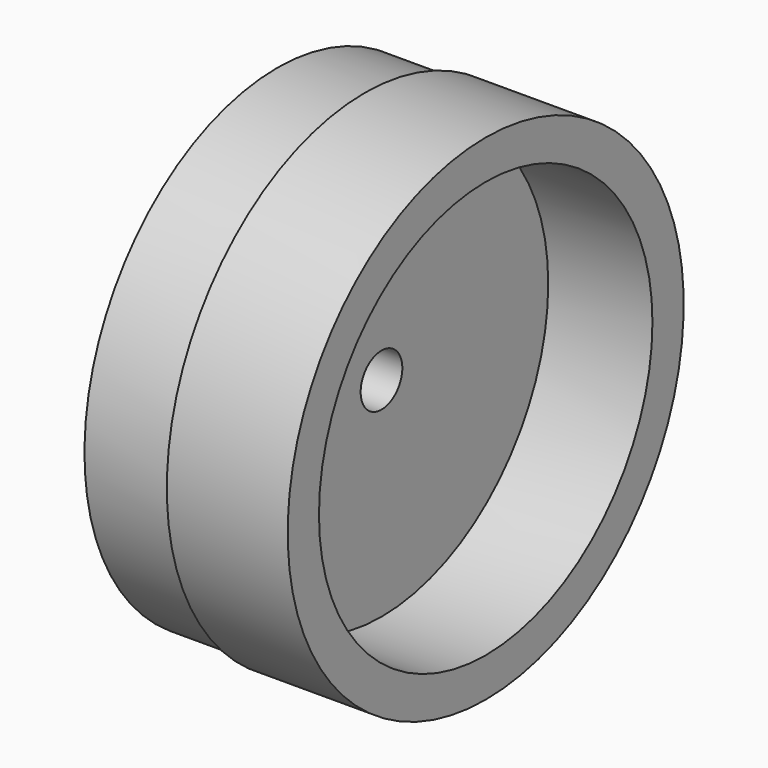
from build123d import *

# Parameters (mm, degrees)
F2_R     = 25.4
F3_DEPTH = 12.7
F4_R     = 3.175
F5_DEPTH = 25.4
F6_R     = 3.9751
F7_DEPTH = 10.16
F8_R     = 1.7272
F9_DEPTH = 70.55837


with BuildPart() as f1:
    # F0 (on Front) → F1 (revolve)
    with BuildSketch(Plane.XZ):
        Polygon((-51.577873, 29.3751), (-51.577873, 0), (-26.177873, 0), (-26.177873, 30.1625), (-40.909873, 30.1625), (-40.909873, 29.3751), align=None)
    revolve(axis=Axis((-38.877873, 0, 0), (-1, 0, 0)))

    # F2 (on face) → F3 (cut)
    with BuildSketch(Plane.YZ.offset(-26.177873)):
        Circle(F2_R)
    extrude(amount=-F3_DEPTH, mode=Mode.SUBTRACT)

    # F4 (on face) → F5 (cut)
    with BuildSketch(Plane(origin=(-51.577873, 0, 0), x_dir=(0, -1, 0), z_dir=(-1, 0, 0))):
        Circle(F4_R)
    extrude(amount=-F5_DEPTH, mode=Mode.SUBTRACT)

    # F6 (on face) → F7 (cut)
    with BuildSketch(Plane(origin=(-51.577873, 0, 0), x_dir=(0, -1, 0), z_dir=(-1, 0, 0))):
        with Locations((0, 21.1455)):
            Circle(F6_R)
    extrude(amount=-F7_DEPTH, mode=Mode.SUBTRACT)

    # F8 (on Front) → F9 (cut)
    with BuildSketch(Plane.XZ):
        with Locations((-48.098073, 0)):
            Circle(F8_R)
    extrude(amount=-F9_DEPTH, mode=Mode.SUBTRACT)


solid = f1.part
